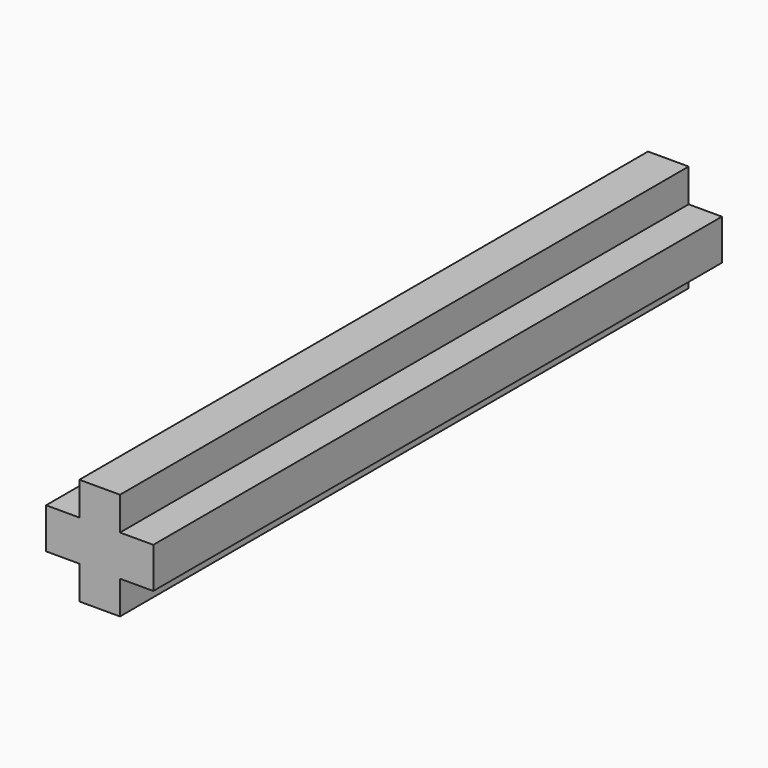
from build123d import *

# Parameters (mm, degrees)
F0_W     = 1.8
F0_H     = 1.8
F0_W_2   = 1.475
F0_H_2   = 1.475
F1_DEPTH = 31.5


with BuildPart() as f1:
    # F0 (on Front) → F1 (new body)
    with BuildSketch(Plane.XZ):
        Rectangle(F0_W, F0_H)
        with Locations((-1.6375, 0)):
            Rectangle(F0_W_2, F0_H)
        with Locations((0, 1.6375)):
            Rectangle(F0_W, F0_H_2)
        with Locations((0, -1.6375)):
            Rectangle(F0_W, F0_H_2)
        with Locations((1.6375, 0)):
            Rectangle(F0_W_2, F0_H)
    extrude(amount=F1_DEPTH)


solid = f1.part
